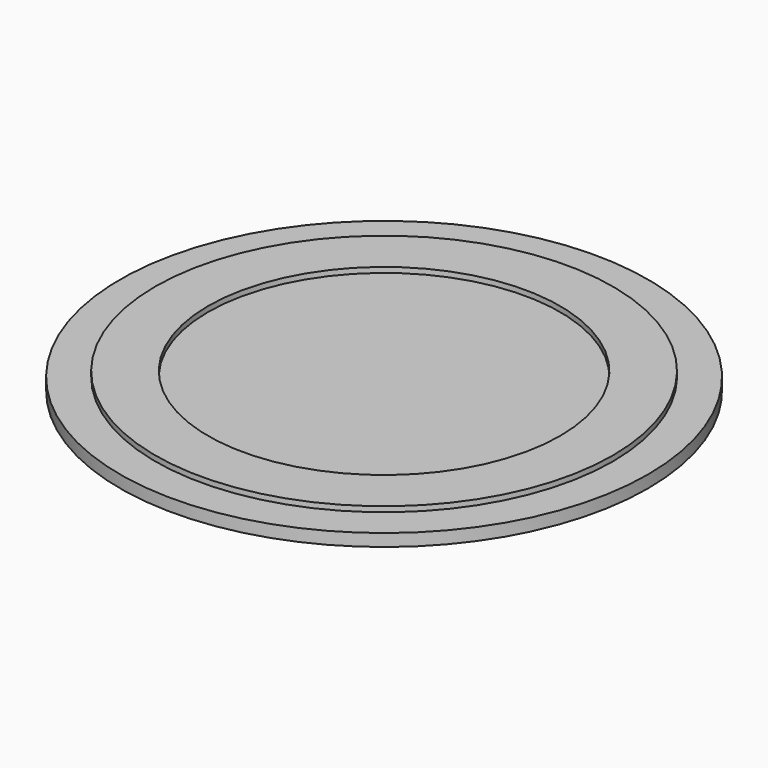
from build123d import *

# Parameters (mm, degrees)
F0_R     = 150
F1_DEPTH = 10
F2_R     = 150
F2_R_2   = 130
F2_R_3   = 100
F3_DEPTH = 3


with BuildPart() as f1:
    # F0 (on Top) → F1 (new body)
    with BuildSketch(Plane.XY):
        Circle(F0_R)
    extrude(amount=F1_DEPTH)

    # F2 (on face) → F3 (cut)
    with BuildSketch(Plane.XY.offset(10)):
        Circle(F2_R)
        Circle(F2_R_2, mode=Mode.SUBTRACT)
        Circle(F2_R_3)
    extrude(amount=-F3_DEPTH, mode=Mode.SUBTRACT)


solid = f1.part
